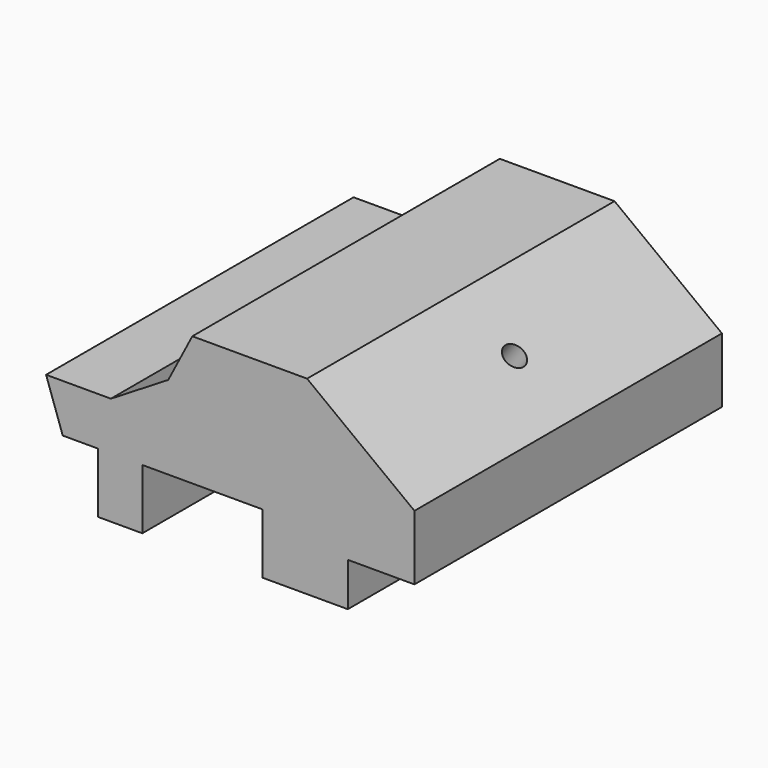
from build123d import *

# Parameters (mm, degrees)
F1_DEPTH = 65.532
F2_R     = 1.905
F3_DEPTH = 52.671675


with BuildPart() as f1:
    # F0 (on Front) → F1 (new body)
    with BuildSketch(Plane.XZ):
        Polygon((34.087103, 10.257693), (34.087103, 0), (41.662011, 0), (41.662011, 10.257693), (62.177397, 10.257693), (62.177397, 0), (76.695979, 0), (76.695979, 7.417101), (88.058345, 7.417101), (88.058345, 18.463846), (69.752306, 32.351185), (50.183784, 32.351185), (46.080712, 24.460651), (36.29645, 18.463846), (25.249707, 18.463846), (28.090296, 10.257693), align=None)
    extrude(amount=F1_DEPTH)

    # F2 (on face) → F3 (cut, through all)
    with BuildSketch(Plane(origin=(41.056729, 0, 54.12024), x_dir=(0.796691, 0, -0.604386), z_dir=(0.604386, 0, 0.796691))):
        with Locations((47.507229, -32.766)):
            Circle(F2_R)
    extrude(amount=-F3_DEPTH, mode=Mode.SUBTRACT)


solid = f1.part
